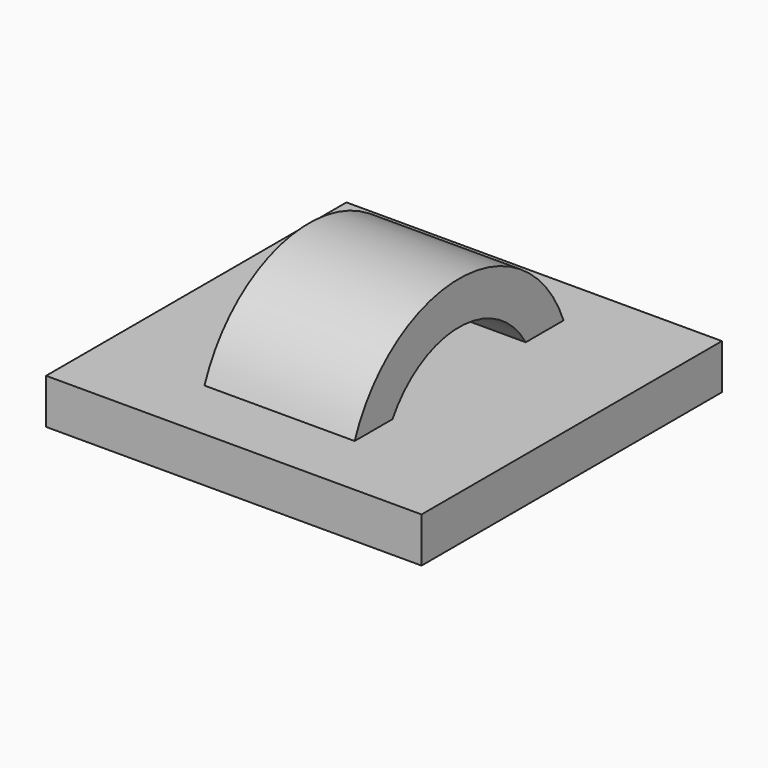
from build123d import *

# Parameters (mm, degrees)
F0_W     = 25
F0_H     = 25
F1_DEPTH = 3
F3_DEPTH = 5


with BuildPart() as f1:
    # F0 (on Top) → F1 (new body)
    with BuildSketch(Plane.XY):
        Rectangle(F0_W, F0_H)
    extrude(amount=F1_DEPTH)


with BuildPart() as f3:
    # F2 (on Right) → F3 (new body, symmetric)
    with BuildSketch(Plane.YZ):
        with BuildLine():
            ThreePointArc((-5.5460641964, 3.3167562178), (0, 6.4621745472), (5.5460641964, 3.3167562178))
            Line((5.5460641964, 3.3167562178), (8.6921075266, 3.3167562178))
            ThreePointArc((8.6921075266, 3.3167562178), (0, 9.3034189985), (-8.6921075266, 3.3167562178))
            Line((-8.6921075266, 3.3167562178), (-5.5460641964, 3.3167562178))
        make_face()
    extrude(amount=F3_DEPTH, both=True)


solid = Compound([f1.part, f3.part])
